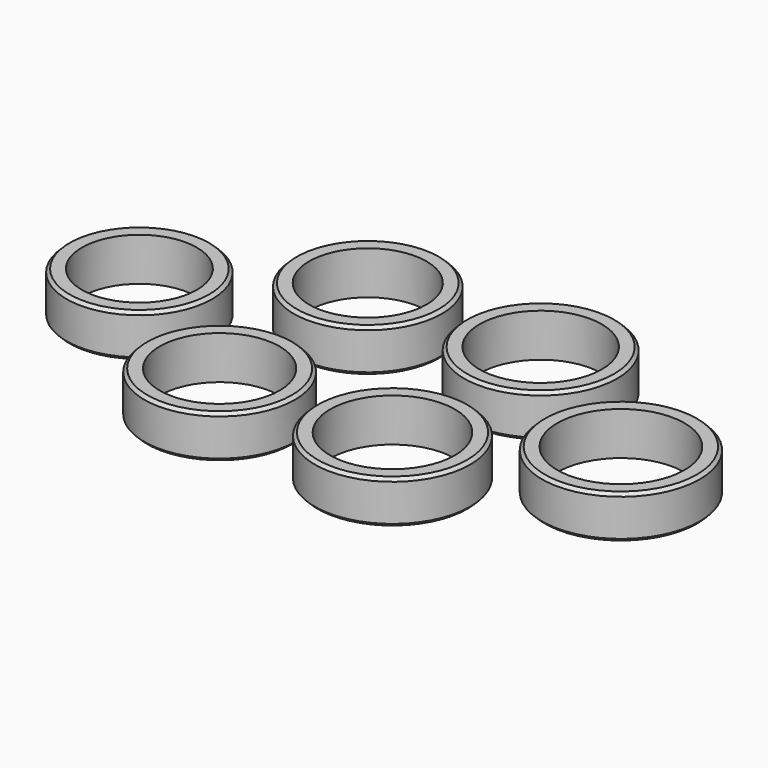
from build123d import *

# Parameters (mm, degrees)
F0_R     = 11.8
F0_R_2   = 9.3
F0_R_3   = 12
F0_R_4   = 9.5
F0_R_5   = 12.4
F0_R_6   = 9.9
F0_R_7   = 12.8
F0_R_8   = 10.3
F0_R_9   = 12.6
F0_R_10  = 10.1
F0_R_11  = 12.2
F0_R_12  = 9.7
F1_DEPTH = 7
F2_SIZE  = 0.5


with BuildPart() as f1:
    # F0 (on Top) → F1 (new body)
    with BuildSketch(Plane.XY):
        with Locations((-53, -15)):
            Circle(F0_R)
        with Locations((-53, -15)):
            Circle(F0_R_2, mode=Mode.SUBTRACT)
        with Locations((-28, 0)):
            Circle(F0_R_3)
        with Locations((-28, 0)):
            Circle(F0_R_4, mode=Mode.SUBTRACT)
        Circle(F0_R_5)
        Circle(F0_R_6, mode=Mode.SUBTRACT)
        with Locations((25, -15)):
            Circle(F0_R_7)
        with Locations((25, -15)):
            Circle(F0_R_8, mode=Mode.SUBTRACT)
        with Locations((0, -30)):
            Circle(F0_R_9)
        with Locations((0, -30)):
            Circle(F0_R_10, mode=Mode.SUBTRACT)
        with Locations((-28, -30)):
            Circle(F0_R_11)
        with Locations((-28, -30)):
            Circle(F0_R_12, mode=Mode.SUBTRACT)
    extrude(amount=F1_DEPTH)

    # F2
    f2_edges = [f1.edges().sort_by_distance(p)[0] for p in [
        (-64.8, -15, 7),
        (-64.8, -15, 0),
        (-40, 0, 7),
        (-40, 0, 0),
        (-12.4, 0, 0),
        (-12.4, 0, 7),
        (12.2, -15, 7),
        (12.2, -15, 0),
        (-12.6, -30, 7),
        (-12.6, -30, 0),
        (-40.2, -30, 7),
        (-40.2, -30, 0),
    ]]
    chamfer(f2_edges, length=F2_SIZE)


solid = f1.part
